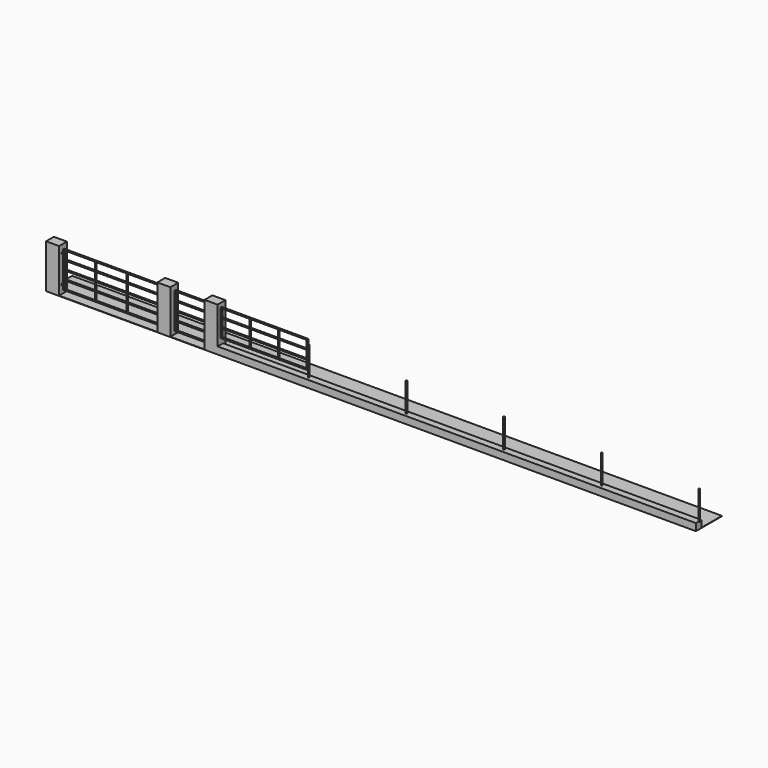
from build123d import *

# Parameters (mm, degrees)
F0_W      = 19970
F0_H      = 10
F1_DEPTH  = 1000
F2_W      = 400
F2_H      = 300
F3_DEPTH  = 1340
F5_W      = 14700
F5_H      = 210
F6_DEPTH  = 210
F7_R      = 21.25
F8_DEPTH  = 880
F10_W     = 2945
F10_H     = 1100
F10_W_2   = 955
F10_H_2   = 250
F10_W_3   = 940
F10_W_4   = 900
F11_DEPTH = 40
F12_W     = 45
F12_H     = 40
F13_DEPTH = 45
F14_W     = 860
F14_H     = 250
F15_DEPTH = 40


with BuildPart() as f1:
    # F0 (on Front) → F1 (new body)
    with BuildSketch(Plane.XZ):
        with Locations((9985, -5)):
            Rectangle(F0_W, F0_H)
    extrude(amount=-F1_DEPTH)

    # F2 (on face) → F3 (join)
    with BuildSketch(Plane.XY):
        with Locations((200, 150)):
            Rectangle(F2_W, F2_H)
        with Locations((3620, 150)):
            Rectangle(F2_W, F2_H)
        with Locations((5070, 150)):
            Rectangle(F2_W, F2_H)
    extrude(amount=F3_DEPTH)

    # F5 (on face) → F6 (join)
    with BuildSketch(Plane.XY):
        with Locations((12620, 105)):
            Rectangle(F5_W, F5_H)
    extrude(amount=F6_DEPTH)

    # F7 (on face) → F8 (join)
    with BuildSketch(Plane.XY.offset(210)):
        with Locations((7980, 118)):
            Circle(F7_R)
        with Locations((10980, 118)):
            Circle(F7_R)
        with Locations((13980, 118)):
            Circle(F7_R)
        with Locations((16980, 118)):
            Circle(F7_R)
        with Locations((19980, 118)):
            Circle(F7_R)
    extrude(amount=F8_DEPTH)

    # F12 (on offset) → F13 (join)
    with BuildSketch(Plane.XZ.offset(-90)):
        with Locations((422.5, 1110)):
            Rectangle(F12_W, F12_H)
        with Locations((422.5, 265)):
            Rectangle(F12_W, F12_H)
        with Locations((4847.5, 1090)):
            Rectangle(F12_W, F12_H)
        with Locations((4847.5, 245)):
            Rectangle(F12_W, F12_H)
    extrude(amount=-F13_DEPTH)


with BuildPart() as f11:
    # F10 (on offset) → F11 (new body)
    with BuildSketch(Plane.XZ.offset(-90)):
        with Locations((1922.5, 685)):
            Rectangle(F10_W, F10_H)
        with Locations((947.5, 280)):
            Rectangle(F10_W_2, F10_H_2, mode=Mode.SUBTRACT)
        with Locations((1922.5, 280)):
            Rectangle(F10_W_2, F10_H_2, mode=Mode.SUBTRACT)
        with Locations((947.5, 550)):
            Rectangle(F10_W_2, F10_H_2, mode=Mode.SUBTRACT)
        with Locations((1922.5, 550)):
            Rectangle(F10_W_2, F10_H_2, mode=Mode.SUBTRACT)
        with Locations((2897.5, 280)):
            Rectangle(F10_W_2, F10_H_2, mode=Mode.SUBTRACT)
        with Locations((2897.5, 550)):
            Rectangle(F10_W_2, F10_H_2, mode=Mode.SUBTRACT)
        with Locations((947.5, 820)):
            Rectangle(F10_W_2, F10_H_2, mode=Mode.SUBTRACT)
        with Locations((1922.5, 820)):
            Rectangle(F10_W_2, F10_H_2, mode=Mode.SUBTRACT)
        with Locations((947.5, 1090)):
            Rectangle(F10_W_2, F10_H_2, mode=Mode.SUBTRACT)
        with Locations((1922.5, 1090)):
            Rectangle(F10_W_2, F10_H_2, mode=Mode.SUBTRACT)
        with Locations((2897.5, 820)):
            Rectangle(F10_W_2, F10_H_2, mode=Mode.SUBTRACT)
        with Locations((2897.5, 1090)):
            Rectangle(F10_W_2, F10_H_2, mode=Mode.SUBTRACT)
        with Locations((4350, 685)):
            Rectangle(F10_W_3, F10_H)
        with Locations((4350, 280)):
            Rectangle(F10_W_4, F10_H_2, mode=Mode.SUBTRACT)
        with Locations((4350, 550)):
            Rectangle(F10_W_4, F10_H_2, mode=Mode.SUBTRACT)
        with Locations((4350, 820)):
            Rectangle(F10_W_4, F10_H_2, mode=Mode.SUBTRACT)
        with Locations((4350, 1090)):
            Rectangle(F10_W_4, F10_H_2, mode=Mode.SUBTRACT)
    extrude(amount=-F11_DEPTH)


with BuildPart() as f15:
    # F14 (on offset) → F15 (new body)
    with BuildSketch(Plane.XZ.offset(-90)):
        Polygon((7955, 1235), (5295, 1235), (5295, 405), (5703.985691, 405), (7955, 405), align=None)
        with Locations((5745, 550)):
            Rectangle(F14_W, F14_H, mode=Mode.SUBTRACT)
        with Locations((6625, 550)):
            Rectangle(F14_W, F14_H, mode=Mode.SUBTRACT)
        with Locations((7505, 550)):
            Rectangle(F14_W, F14_H, mode=Mode.SUBTRACT)
        with Locations((5745, 820)):
            Rectangle(F14_W, F14_H, mode=Mode.SUBTRACT)
        with Locations((5745, 1090)):
            Rectangle(F14_W, F14_H, mode=Mode.SUBTRACT)
        with Locations((6625, 820)):
            Rectangle(F14_W, F14_H, mode=Mode.SUBTRACT)
        with Locations((7505, 820)):
            Rectangle(F14_W, F14_H, mode=Mode.SUBTRACT)
        with Locations((6625, 1090)):
            Rectangle(F14_W, F14_H, mode=Mode.SUBTRACT)
        Polygon((7415, 1215), (7935, 1215), (7935, 965), (7075, 965), (7075, 1215), (7395, 1215), align=None, mode=Mode.SUBTRACT)
    extrude(amount=-F15_DEPTH)


solid = Compound([f1.part, f11.part, f15.part])
